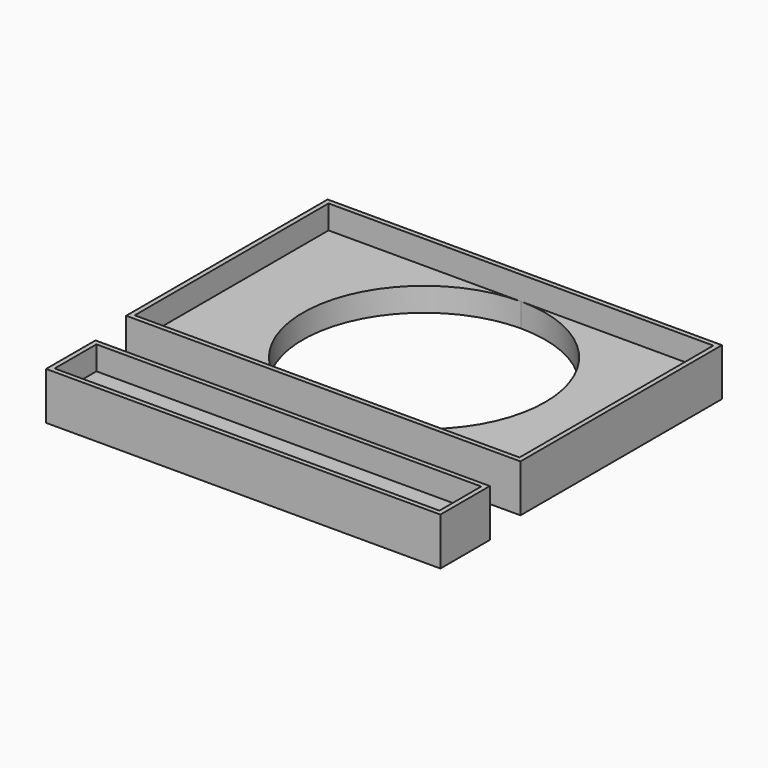
from build123d import *

# Parameters (mm, degrees)
F0_W     = 83
F0_H     = 53
F0_W_2   = 81
F0_H_2   = 51
F1_DEPTH = 10
F2_DEPTH = 5
F3_W     = 81
F3_H     = 11
F4_DEPTH = 5
F3_W_2   = 83
F3_H_2   = 13
F5_DEPTH = 10
F7_DEPTH = 25


with BuildPart() as f1:
    # F0 (on Top) → F1 (new body)
    with BuildSketch(Plane.XY):
        with Locations((-9.075372, -3.113147)):
            Rectangle(F0_W, F0_H)
        with Locations((-9.075372, -3.113147)):
            Rectangle(F0_W_2, F0_H_2, mode=Mode.SUBTRACT)
    extrude(amount=F1_DEPTH)

    # F0 (on Top) → F2 (join)
    with BuildSketch(Plane.XY):
        with Locations((-9.075372, -3.113147)):
            Rectangle(F0_W_2, F0_H_2)
    extrude(amount=F2_DEPTH)

    # F6 (on face) → F7 (cut)
    with BuildSketch(Plane.XY.offset(5)):
        with BuildLine():
            ThreePointArc((-9.075372, -28.613147), (8.955851, -21.144369), (16.424628, -3.113147))
            ThreePointArc((16.424628, -3.113147), (8.955851, 14.918076), (-9.075372, 22.386853))
            ThreePointArc((-9.075372, 22.386853), (-34.575372, -3.113147), (-9.075372, -28.613147))
        make_face()
    extrude(amount=-F7_DEPTH, mode=Mode.SUBTRACT)


with BuildPart() as f4:
    # F3 (on Top) → F4 (new body)
    with BuildSketch(Plane.XY):
        with Locations((-7.530028, -46.113147)):
            Rectangle(F3_W, F3_H)
    extrude(amount=F4_DEPTH)

    # F3 (on Top) → F5 (join)
    with BuildSketch(Plane.XY):
        with Locations((-7.530028, -46.113147)):
            Rectangle(F3_W_2, F3_H_2)
        with Locations((-7.530028, -46.113147)):
            Rectangle(F3_W, F3_H, mode=Mode.SUBTRACT)
    extrude(amount=F5_DEPTH)


solid = Compound([f1.part, f4.part])
